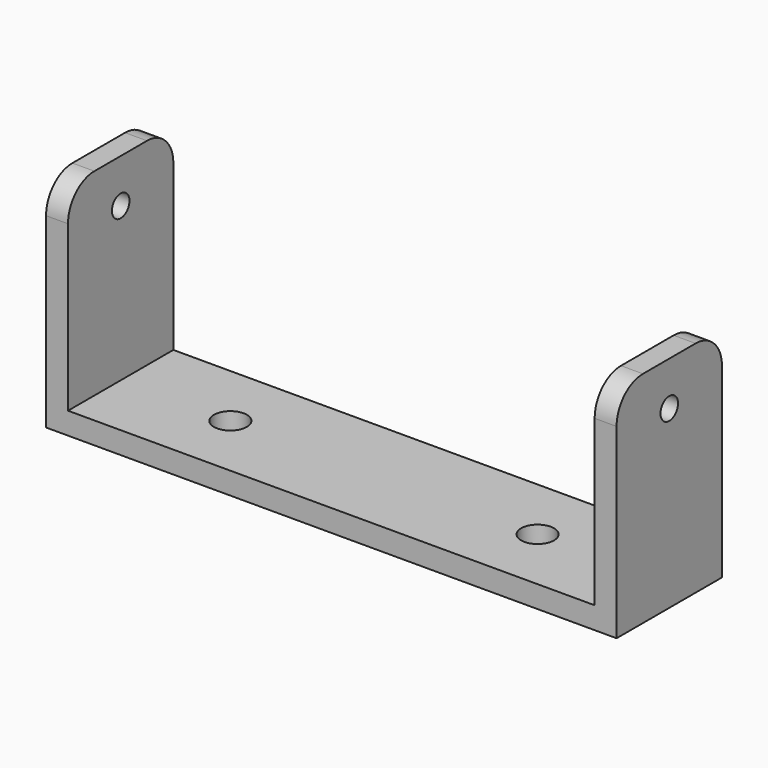
from build123d import *

# Parameters (mm, degrees)
F1_DEPTH = 76.2
F3_D     = 12.7
F4_R     = 19.05
F6_D     = 19.05


with BuildPart() as f1:
    # F0 (on Front) → F1 (new body)
    with BuildSketch(Plane.XZ):
        Polygon((-103.028067, 44.460986), (-115.728067, 44.460986), (-115.728067, -82.539014), (214.471933, -82.539014), (214.471933, 44.460986), (201.771933, 44.460986), (201.771933, -69.839014), (-103.028067, -69.839014), align=None)
    extrude(amount=F1_DEPTH)

    # F3 (through all)
    with Locations(Plane.YZ.offset(214.471933)):
        with Locations((-38.1, 19.060986)):
            Hole(F3_D / 2)

    # F4
    f4_edges = [f1.edges().sort_by_distance(p)[0] for p in [
        (208.121933, -76.2, 44.460986),
        (208.121933, 0, 44.460986),
        (-109.378067, -76.2, 44.460986),
        (-109.378067, 0, 44.460986),
    ]]
    fillet(f4_edges, radius=F4_R)

    # F6 (through all)
    with Locations(Plane(origin=(0, 0, -82.539014), x_dir=(1, 0, 0), z_dir=(0, 0, -1))):
        with Locations((-39.528067, 38.1), (138.271933, 38.1)):
            Hole(F6_D / 2)


solid = f1.part
